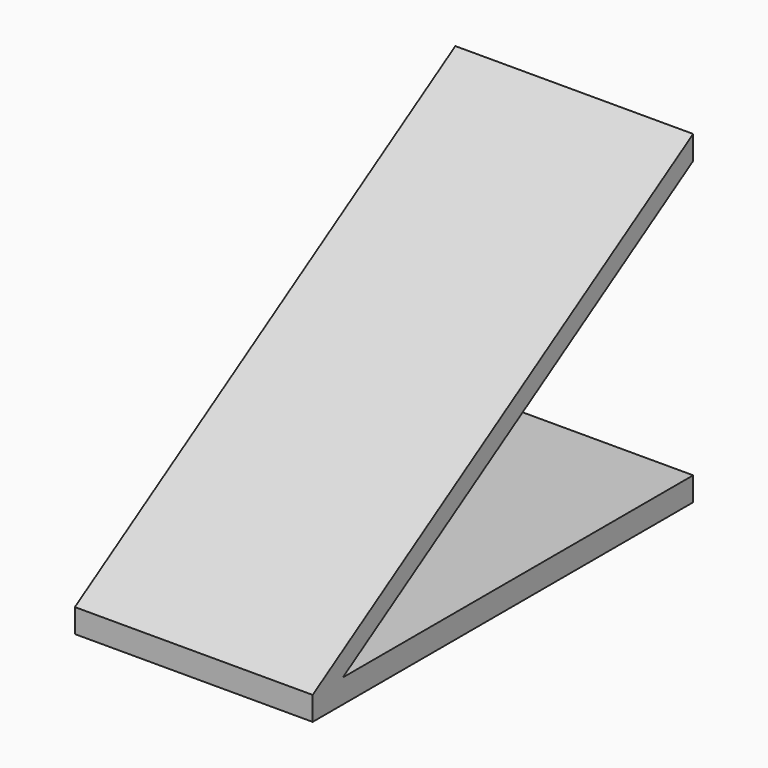
from build123d import *

# Parameters (mm, degrees)
F1_DEPTH = 100


with BuildPart() as f1:
    # F0 (on Right) → F1 (new body)
    with BuildSketch(Plane.YZ):
        Polygon((200, 136.370988), (0, 10), (15.826417, 10), (200, 126.370988), align=None)
        Polygon((0, 10), (0, 0), (15.826417, 10), align=None)
        Polygon((15.826417, 10), (0, 0), (200, 0), (200, 10), align=None)
    extrude(amount=F1_DEPTH)


solid = f1.part
